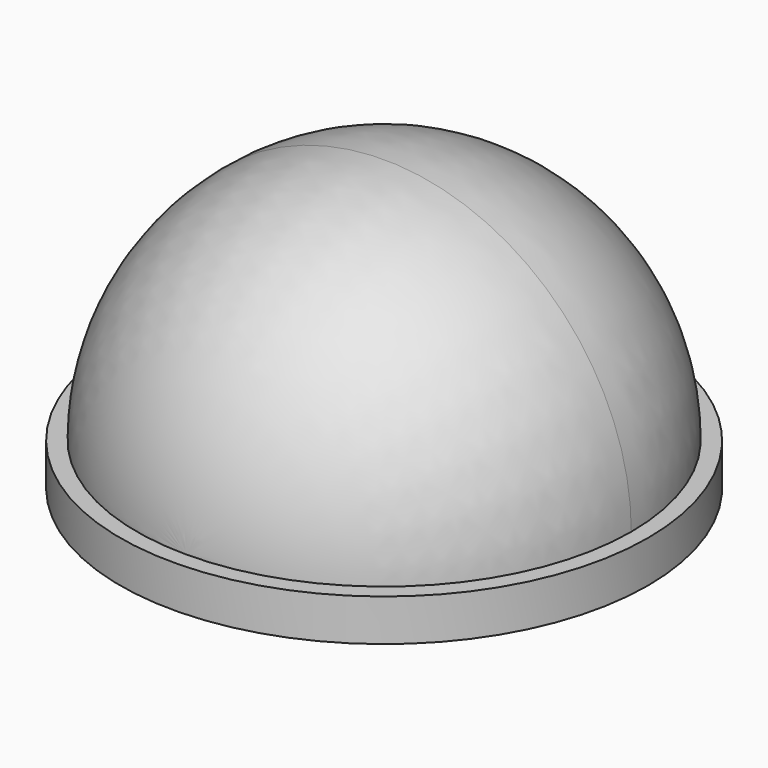
from build123d import *

# Parameters (mm, degrees)
F1_ANGLE = 180
F2_R     = 31.5
F3_DEPTH = 5


with BuildPart() as f1:
    # F0 (on Top) → F1 (revolve)
    with BuildSketch(Plane.XY):
        with BuildLine():
            ThreePointArc((0, -29.5), (20.85965, -20.85965), (29.5, 0))
            ThreePointArc((29.5, 0), (20.85965, 20.85965), (0, 29.5))
            Line((0, 29.5), (0, -29.5))
        make_face()
    revolve(axis=Axis((0, 0, 0), (0, -1, 0)), revolution_arc=F1_ANGLE)

    # F2 (on face) → F3 (join)
    with BuildSketch(Plane(origin=(0, 0, 0), x_dir=(1, 0, 0), z_dir=(0, 0, -1))):
        Circle(F2_R)
    extrude(amount=F3_DEPTH)


solid = f1.part
